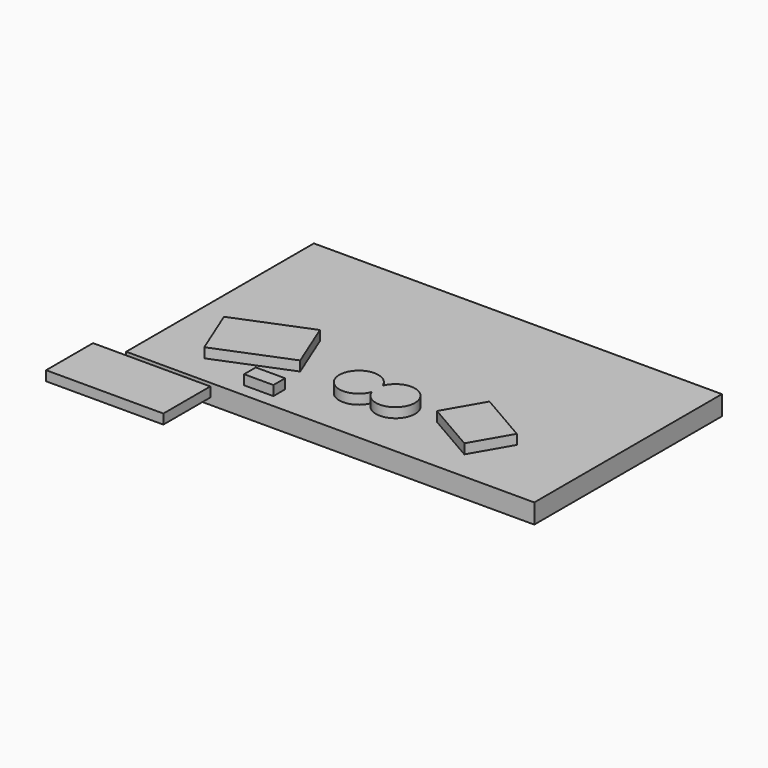
from build123d import *

# Parameters (mm, degrees)
F1_W     = 76.2
F1_H     = 38.1
F2_DEPTH = 25.4
F0_W     = 1060.45
F0_H     = 609.6
F3_DEPTH = 50.8
F1_W_2   = 304.8
F1_H_2   = 152.4
F4_DEPTH = 25.4


with BuildPart() as f2:
    # F1 (on face) → F2 (new body)
    with BuildSketch(Plane.XY):
        with BuildLine():
            ThreePointArc((530.225, 170.077652), (431.8, 152.4), (530.225, 134.722348))
            ThreePointArc((530.225, 134.722348), (628.65, 152.4), (530.225, 170.077652))
        make_face()
        Polygon((330.2, 152.4), (277.8125, 281.905366), (89.441058, 205.705366), (141.828558, 76.2), align=None)
        with Locations((317.111106, 53.097629)):
            Rectangle(F1_W, F1_H)
        Polygon((817.782272, 76.2), (874.932272, 175.186704), (742.95, 251.386704), (685.8, 152.4), align=None)
    extrude(amount=F2_DEPTH)


with BuildPart() as f3:
    # F0 (on Top) → F3 (new body)
    with BuildSketch(Plane.XY):
        with Locations((530.225, 304.8)):
            Rectangle(F0_W, F0_H)
    extrude(amount=-F3_DEPTH)


with BuildPart() as f4:
    # F1 (on face) → F4 (new body)
    with BuildSketch(Plane.XY):
        with Locations((76.2, -88.9)):
            Rectangle(F1_W_2, F1_H_2)
    extrude(amount=-F4_DEPTH)


solid = Compound([f2.part, f3.part, f4.part])
